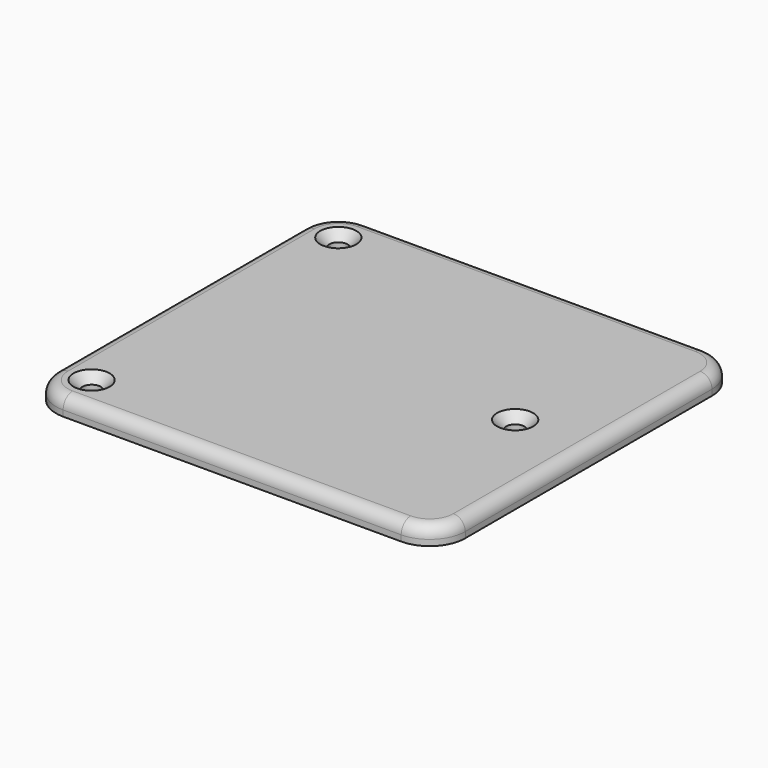
from build123d import *

# Parameters (mm, degrees)
SKETCH_R     = 1.55
PAD_DEPTH    = 3
CHAMFER_SIZE = 1.5
FILLET_R     = 2


with BuildPart() as part:
    # Sketch → Pad (new body)
    with BuildSketch(Plane.XY):
        with BuildLine():
            ThreePointArc((6, 0), (1.757359, -1.757359), (0, -6))
            Line((0, -58), (0, -6))
            ThreePointArc((0, -58), (1.757359, -62.242641), (6, -64))
            Line((63, -64), (6, -64))
            ThreePointArc((63, -64), (67.242641, -62.242641), (69, -58))
            Line((69, -6), (69, -58))
            ThreePointArc((69, -6), (67.242641, -1.757359), (63, 0))
            Line((6, 0), (63, 0))
        make_face()
        with Locations((6, -6)):
            Circle(SKETCH_R, mode=Mode.SUBTRACT)
        with Locations((6, -58)):
            Circle(SKETCH_R, mode=Mode.SUBTRACT)
        with Locations((56.61235, -32)):
            Circle(SKETCH_R, mode=Mode.SUBTRACT)
    extrude(amount=PAD_DEPTH)

    # Chamfer
    chamfer_edges = [part.edges().sort_by_distance(p)[0] for p in [
        (4.45, -6, 3),
        (4.45, -58, 3),
        (55.06235, -32, 3),
    ]]
    chamfer(chamfer_edges, length=CHAMFER_SIZE)

    # Fillet
    fillet_edges = [part.edges().sort_by_distance(p)[0] for p in [
        (69, -32, 3),
    ]]
    fillet(fillet_edges, radius=FILLET_R)


solid = part.part
